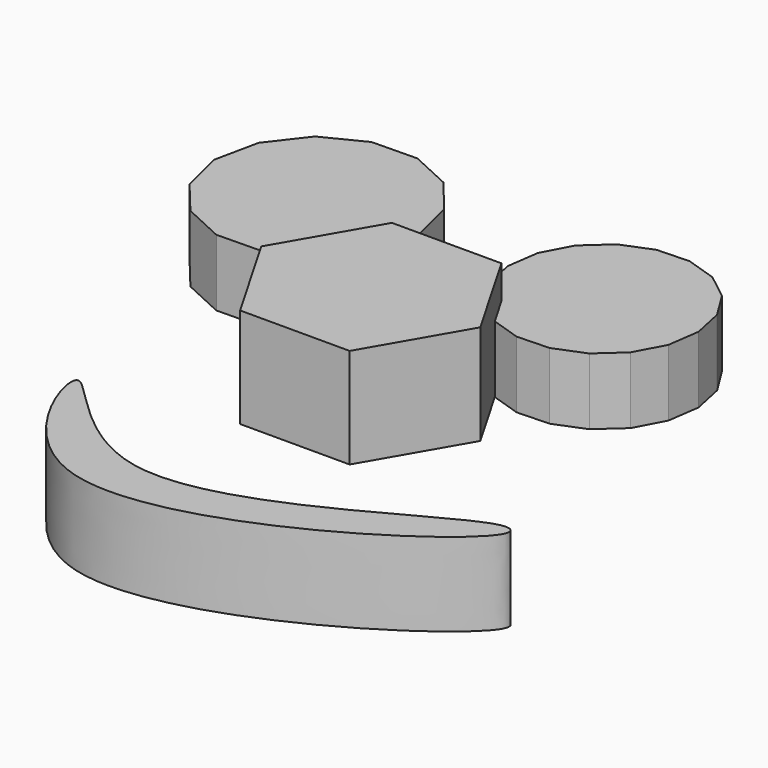
from build123d import *

# Parameters (mm, degrees)
F2_DEPTH  = 5.08
F4_DEPTH  = 5.08
F6_DEPTH  = 7.62
F8_DEPTH  = 2.54
F10_DEPTH = 2.54
F12_DEPTH = 6.35


with BuildPart() as f2:
    # F1 (on face) → F2 (new body)
    with BuildSketch(Plane.XY):
        Polygon((-55.7377048872, 39.4435390446), (-52.6082879759, 37.9993006971), (-49.1621492298, 38.055890019), (-46.0818386916, 39.6020988009), (-43.977449641, 42.3316814306), (-43.2657821381, 45.7040105922), (-44.0877906598, 49.0511551363), (-46.2806663372, 51.710172036), (-49.4100832485, 53.1544103834), (-52.8562219946, 53.0978210616), (-55.9365325328, 51.5516122797), (-58.0409215834, 48.8220296499), (-58.7525890864, 45.4497004883), (-57.9305805646, 42.1025559442), align=None)
    extrude(amount=F2_DEPTH)


with BuildPart() as f4:
    # F3 (on face) → F4 (new body)
    with BuildSketch(Plane.XY):
        Polygon((-25.7249953214, 39.9160244175), (-23.8977639016, 41.5603584937), (-22.7431233963, 43.7304770432), (-22.4003404912, 46.1646317415), (-22.9107598635, 48.5692276077), (-24.212817404, 50.6542348923), (-26.1494657569, 52.1681709452), (-28.487116549, 52.9284327353), (-30.9438145948, 52.8433214704), (-33.2232458528, 51.923102825), (-35.0504772726, 50.2787687489), (-36.2051177779, 48.1086501994), (-36.547900683, 45.6744955011), (-36.0374813107, 43.2698996349), (-34.7354237702, 41.1848923503), (-32.7987754173, 39.6709562973), (-30.4611246252, 38.9106945072), (-28.0044265794, 38.9958057722), align=None)
    extrude(amount=F4_DEPTH)

    # F5 (on face) → F6 (join)
    with BuildSketch(Plane.XY):
        Polygon((-42.3618078957, 27.457466349), (-34.0172453989, 27.457466349), (-29.8449641506, 34.6840694547), (-34.0172453989, 41.9106725603), (-42.3618078957, 41.9106725603), (-46.5340891441, 34.6840694547), align=None)
    extrude(amount=F6_DEPTH)

    # F7 (on face) → F8 (join)
    with BuildSketch(Plane.XY.offset(7.62)):
        Polygon((-38.4145907474, 30.3998731859), (-38.031131283, 31.0640444609), (-37.8604757666, 31.811735131), (-37.91778769, 32.576509599), (-38.197974637, 33.2904142971), (-38.676140768, 33.8900156602), (-39.3097989238, 34.3220364757), (-40.0426457964, 34.5480897984), (-40.8095647253, 34.5480897984), (-41.5424115979, 34.3220364757), (-42.1760697537, 33.8900156602), (-42.6542358847, 33.2904142971), (-42.9344228317, 32.576509599), (-42.9917347551, 31.811735131), (-42.8210792387, 31.0640444609), (-42.4376197743, 30.3998731859), (-41.875428418, 29.8782358384), (-41.1844583389, 29.5454821859), (-40.4261052608, 29.4311788508), (-39.6677521828, 29.5454821859), (-38.9767821037, 29.8782358384), align=None)
    extrude(amount=-F8_DEPTH)

    # F9 (on face) → F10 (join)
    with BuildSketch(Plane.XY.offset(7.62)):
        Polygon((-41.4187325861, 30.5227078497), (-40.8176244472, 30.5227078497), (-40.2388070287, 30.6848848847), (-39.7252085707, 30.9972110259), (-39.3149203211, 31.4365224722), (-39.0383714825, 31.9702375034), (-38.9160724171, 32.5587729171), (-38.9570934872, 33.1584797341), (-39.1583923476, 33.7248804434), (-39.5050395828, 34.2159676952), (-39.971325953, 34.5953197949), (-40.5226691314, 34.8348019326), (-41.1181785166, 34.9166528136), (-41.7136879018, 34.8348019326), (-42.2650310802, 34.5953197949), (-42.7313174505, 34.2159676952), (-43.0779646856, 33.7248804434), (-43.279263546, 33.1584797341), (-43.3202846161, 32.5587729171), (-43.1979855508, 31.9702375034), (-42.9214367122, 31.4365224722), (-42.5111484626, 30.9972110259), (-41.9975500045, 30.6848848847), align=None)
    extrude(amount=-F10_DEPTH)


with BuildPart() as f12:
    # F11 (on face) → F12 (new body)
    with BuildSketch(Plane.XY):
        with BuildLine():
            add(Edge.make_bspline(
                [(-53.499225527, 25.7942676544), (-54.1675997056, 25.2514000291), (-48.026588456, 7.0910339312), (-19.4789502094, 25.4243389861), (-22.7561704454, 28.3611239549), (-43.9535859216, 11.8767402158), (-52.8409290122, 26.3289499884), (-53.499225527, 25.7942676544)],
                knots=[0, 0, 0, 0, 0.1944076044, 0.4838292771, 0.5401190232, 0.8085236495, 1, 1, 1, 1], degree=3))
        make_face()
    extrude(amount=-F12_DEPTH)


solid = Compound([f2.part, f4.part, f12.part])
